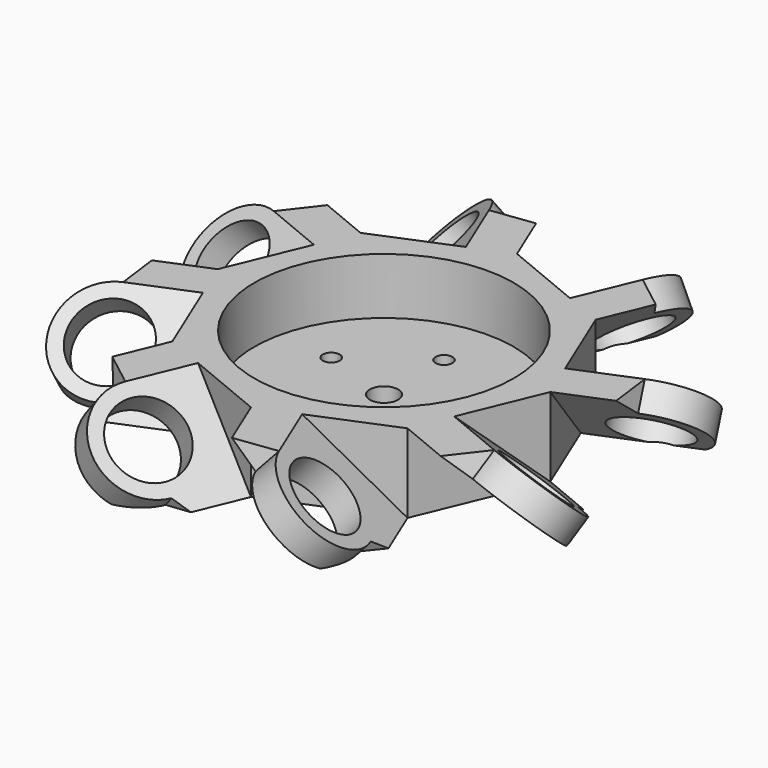
from build123d import *

# Parameters (mm, degrees)
PAD_DEPTH             = 14
SKETCH001_R           = 23
POCKET_DEPTH          = 10
SKETCH002_R           = 2.5
SKETCH002_R_2         = 1.5
POCKET001_DEPTH       = 173.2109287867
POLARPATTERN_COUNT    = 5
PAD001_DEPTH          = 21
POLARPATTERN001_COUNT = 8
SKETCH004_R           = 6.5
POCKET002_DEPTH       = 5
POLARPATTERN002_COUNT = 8


with BuildPart() as part:
    # Sketch → Pad (new body)
    with BuildSketch(Plane.XY):
        Polygon((29.5, 0), (20.859650045, 20.859650045), (0, 29.5), (-20.859650045, 20.859650045), (-29.5, 0), (-20.859650045, -20.859650045), (0, -29.5), (20.859650045, -20.859650045), align=None)
    extrude(amount=PAD_DEPTH)

    # Sketch001 (on Face10 of Pad) → Pocket (cut)
    with BuildSketch(Plane.XY.offset(14)):
        Circle(SKETCH001_R)
    extrude(amount=-POCKET_DEPTH, mode=Mode.SUBTRACT)

    # Sketch002 (on Face12 of Pocket) → Pocket001 (cut, through all)
    with BuildSketch(Plane.XY.offset(4)):
        Circle(SKETCH002_R)
        with Locations((0, 13.3)):
            Circle(SKETCH002_R_2)
    pocket001 = extrude(amount=-POCKET001_DEPTH, mode=Mode.SUBTRACT)

    # PolarPattern: Pocket001 ×5 about axis
    polarpattern_axis = Axis((0, 0, 4), (0, 0, 1))
    for i in range(1, POLARPATTERN_COUNT):
        add(pocket001.rotate(polarpattern_axis, i * 360 / POLARPATTERN_COUNT), mode=Mode.SUBTRACT)

    # Sketch003 (on Face8 of PolarPattern) → Pad001 (join)
    with BuildSketch(Plane(origin=(-10.4298250225, -25.1798250225, 0), x_dir=(0.9238795325, -0.3826834324, 0), z_dir=(-0.3826834324, -0.9238795325, 0))):
        Polygon((-11.2891612548, 14), (3.9092426218, 0), (11.2891612548, 0), (-3.9092426218, 14), align=None)
    pad001 = extrude(amount=PAD001_DEPTH)

    # PolarPattern001: Pad001 ×8 about axis
    polarpattern001_axis = Axis((0, 0, 0), (0, 0, 1))
    for i in range(1, POLARPATTERN001_COUNT):
        add(pad001.rotate(polarpattern001_axis, i * 360 / POLARPATTERN001_COUNT))

    # Sketch004 (on Face52 of PolarPattern001) → Pocket002 (cut)
    with BuildSketch(Plane(origin=(4.7875561885, -1.9830707039, 5.6255952654), x_dir=(0.7798699787, 0.208098843, -0.5903369274), z_dir=(0.6259415438, -0.2592734767, 0.7355096519))):
        with Locations((-21.9449518208, -32.1188270446)):
            Circle(SKETCH004_R)
        with BuildLine():
            Line((-14.1030025385, -36.5351412832), (-10.8005808993, -36.0996031065))
            Line((-10.8005808993, -36.0996031065), (-16.4436490931, -46.1198716338))
            Line((-16.4436490931, -46.1198716338), (-39.1781340839, -33.3165970703))
            Line((-33.5350658901, -23.296328543), (-39.1781340839, -33.3165970703))
            Line((-29.786901103, -27.7025128059), (-33.5350658901, -23.296328543))
            ThreePointArc((-29.786901103, -27.7025128059), (-26.3612660594, -39.9607763268), (-14.1030025385, -36.5351412832))
        make_face()
    pocket002 = extrude(amount=-POCKET002_DEPTH, mode=Mode.SUBTRACT)

    # PolarPattern002: Pocket002 ×8 about axis
    polarpattern002_axis = Axis((0, 0, 0), (0, 0, 1))
    for i in range(1, POLARPATTERN002_COUNT):
        add(pocket002.rotate(polarpattern002_axis, i * 360 / POLARPATTERN002_COUNT), mode=Mode.SUBTRACT)


solid = part.part
